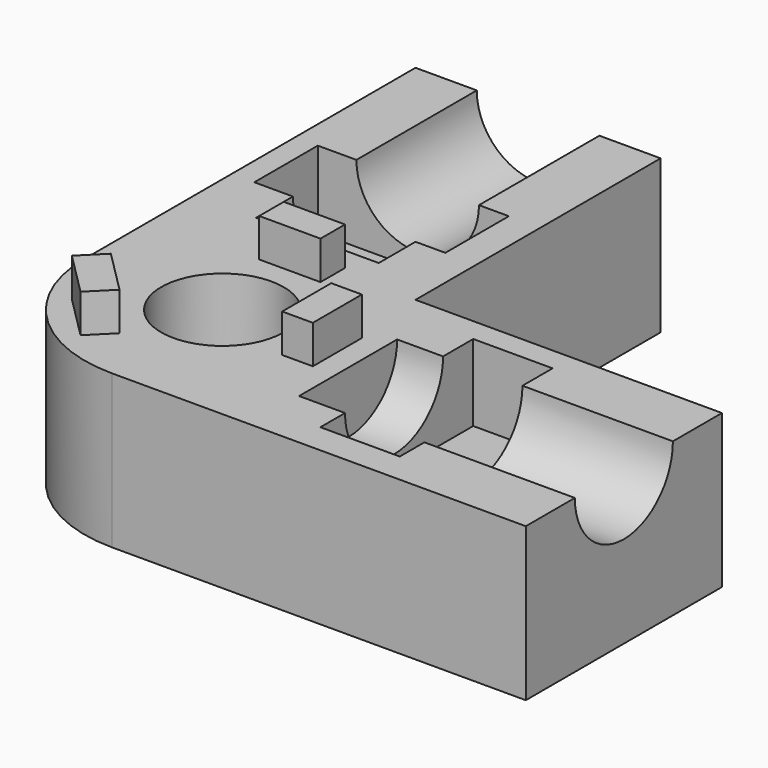
from build123d import *

# Parameters (mm, degrees)
SKETCH002_R   = 4
PAD002_DEPTH  = 18
SKETCH001_R   = 4
PAD001_DEPTH  = 18
SKETCH003_W   = 12.468703
SKETCH003_H   = 5.180136
SKETCH003_W_2 = 5.180136
SKETCH003_H_2 = 12.468704
PAD003_DEPTH  = 5
SKETCH004_W   = 4
SKETCH004_H   = 2
SKETCH004_W_2 = 2
SKETCH004_H_2 = 4
PAD004_DEPTH  = 2.5
SKETCH_R      = 4
PAD_DEPTH     = 10


with BuildPart() as mount002:
    # Sketch002 → Pad002 (new body)
    with BuildSketch(Plane.XZ.offset(-27)):
        with Locations((-1, 10)):
            Circle(SKETCH002_R)
    extrude(amount=PAD002_DEPTH)


with BuildPart() as mount001:
    # Sketch001 → Pad001 (new body)
    with BuildSketch(Plane.YZ.offset(27)):
        with Locations((-1, 10)):
            Circle(SKETCH001_R)
    extrude(amount=-PAD001_DEPTH)


with BuildPart() as cutblock:
    # Sketch003 → Pad003 (new body)
    with BuildSketch(Plane.XY.offset(10)):
        with Locations((-1.285158, 14.590068)):
            Rectangle(SKETCH003_W, SKETCH003_H)
        with Locations((14.590068, -0.774081)):
            Rectangle(SKETCH003_W_2, SKETCH003_H_2)
    extrude(amount=-PAD003_DEPTH)

    # Fusion001: union Mount002, Mount001
    add(mount002.part)
    add(mount001.part)


with BuildPart() as clip:
    # Sketch004 → Pad004 (new body)
    with BuildSketch(Plane.XY.offset(10)):
        with Locations((0, 6.5)):
            Rectangle(SKETCH004_W, SKETCH004_H)
        with Locations((6.5, 0)):
            Rectangle(SKETCH004_W_2, SKETCH004_H_2)
        Polygon((-6.717514, -3.889087), (-5.303301, -2.474874), (-2.474874, -5.303301), (-3.889087, -6.717514), align=None)
    extrude(amount=PAD004_DEPTH)


with BuildPart() as cut:
    # Sketch → Pad (new body)
    with BuildSketch(Plane.XY):
        with BuildLine():
            Line((-9, 3.6e-05), (-9, 27))
            Line((-9, 27), (7, 27))
            Line((7, 27), (7, 7))
            Line((7, 7), (27, 7))
            Line((27, 7), (27, -9))
            Line((27, -9), (3.6e-05, -9))
            ThreePointArc((-9, 3.6e-05), (-6.363961, -6.363961), (3.6e-05, -9))
        make_face()
        Circle(SKETCH_R, mode=Mode.SUBTRACT)
    extrude(amount=PAD_DEPTH)

    # Fusion: union Clip
    add(clip.part)

    # Cut: cut CutBlock
    add(cutblock.part, mode=Mode.SUBTRACT)


solid = cut.part
